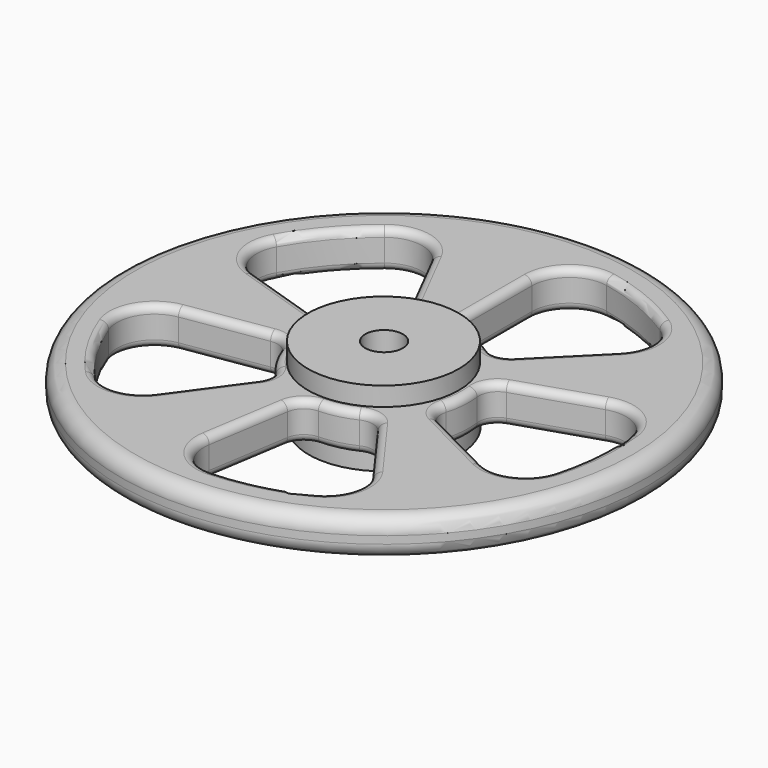
from build123d import *

# Parameters (mm, degrees)
F0_R     = 88.9
F1_DEPTH = 12.7
F2_R     = 25.4
F3_DEPTH = 6.35
F4_R     = 25.4
F5_DEPTH = 6.35
F7_DEPTH = 25.401
F8_R     = 6.35
F9_DEPTH = 25.401
F10_R    = 5.08
F11_R    = 2.54


with BuildPart() as f1:
    # F0 (on Top) → F1 (new body)
    with BuildSketch(Plane.XY):
        Circle(F0_R)
    extrude(amount=F1_DEPTH)

    # F2 (on face) → F3 (join)
    with BuildSketch(Plane.XY.offset(12.7)):
        with Locations((-0.167557, -0.068006)):
            Circle(F2_R)
    extrude(amount=F3_DEPTH)

    # F4 (on face) → F5 (join)
    with BuildSketch(Plane(origin=(0, 0, 0), x_dir=(1, 0, 0), z_dir=(0, 0, -1))):
        Circle(F4_R)
        Circle(F4_R)
    extrude(amount=F5_DEPTH)

    # F6 (on face) → F7 (cut, through all)
    with BuildSketch(Plane.XY.offset(19.05)):
        with BuildLine():
            ThreePointArc((5.195455, 28.098717), (10.935179, 26.399858), (16.195052, 23.542534))
            ThreePointArc((16.195052, 23.542534), (20.373646, 22.450724), (24.28408, 24.28408))
            Line((24.28408, 24.28408), (43.994091, 43.994091))
            ThreePointArc((43.994091, 43.994091), (47.649524, 54.25081), (42.016601, 63.569216))
            ThreePointArc((42.016601, 63.569216), (29.160478, 70.39962), (15.24, 74.660447))
            ThreePointArc((15.24, 74.660447), (4.667815, 72.054417), (0, 62.217039))
            Line((0, 62.217039), (0, 34.342876))
            ThreePointArc((0, 34.342876), (1.468716, 30.281402), (5.195455, 28.098717))
        make_face()
        with BuildLine():
            ThreePointArc((-17.385734, 22.677453), (-15.056105, 26.314144), (-15.591339, 30.599726))
            Line((-15.591339, 30.599726), (-28.245945, 55.435788))
            ThreePointArc((-28.245945, 55.435788), (-36.871074, 62.081812), (-47.474073, 59.60413))
            ThreePointArc((-47.474073, 59.60413), (-57.942935, 49.487941), (-66.296886, 37.565448))
            ThreePointArc((-66.296886, 37.565448), (-67.085389, 26.705395), (-59.171921, 19.226123))
            Line((-59.171921, 19.226123), (-32.662016, 10.612532))
            ThreePointArc((-32.662016, 10.612532), (-28.345467, 10.7543), (-25.117984, 13.624152))
            ThreePointArc((-25.117984, 13.624152), (-21.7286, 18.557978), (-17.385734, 22.677453))
        make_face()
        with BuildLine():
            ThreePointArc((-26.940027, -9.527098), (-29.67883, -6.187689), (-33.920058, -5.372409))
            Line((-33.920058, -5.372409), (-61.451044, -9.732889))
            ThreePointArc((-61.451044, -9.732889), (-70.437101, -15.88214), (-71.357192, -26.731837))
            ThreePointArc((-71.357192, -26.731837), (-64.971181, -39.814391), (-56.213729, -51.443723))
            ThreePointArc((-56.213729, -51.443723), (-46.128865, -55.549575), (-36.570258, -50.334642))
            Line((-36.570258, -50.334642), (-20.186236, -27.78397))
            ThreePointArc((-20.186236, -27.78397), (-18.987178, -23.634879), (-20.719222, -19.678528))
            ThreePointArc((-20.719222, -19.678528), (-24.364193, -14.930396), (-26.940027, -9.527098))
        make_face()
        with BuildLine():
            ThreePointArc((0.735882, -28.565523), (-3.286421, -30.138346), (-5.372409, -33.920058))
            Line((-5.372409, -33.920058), (-9.732889, -61.451044))
            ThreePointArc((-9.732889, -61.451044), (-6.661448, -71.897515), (3.372903, -76.125315))
            ThreePointArc((3.372903, -76.125315), (17.788537, -74.094588), (31.554891, -69.359418))
            ThreePointArc((31.554891, -69.359418), (38.576182, -61.036921), (36.570258, -50.334642))
            Line((36.570258, -50.334642), (20.186236, -27.78397))
            ThreePointArc((20.186236, -27.78397), (16.610745, -25.361459), (12.3128, -25.786151))
            ThreePointArc((12.3128, -25.786151), (6.670701, -27.78547), (0.735882, -28.565523))
        make_face()
        with BuildLine():
            ThreePointArc((27.394827, -8.127367), (27.64771, -12.438833), (30.599726, -15.591339))
            Line((30.599726, -15.591339), (55.435788, -28.245945))
            ThreePointArc((55.435788, -28.245945), (66.320099, -28.552967), (73.441761, -20.316194))
            ThreePointArc((73.441761, -20.316194), (75.965101, -5.978583), (75.715724, 8.577246))
            ThreePointArc((75.715724, 8.577246), (69.970257, 17.826684), (59.171921, 19.226123))
            Line((59.171921, 19.226123), (32.662016, 10.612532))
            ThreePointArc((32.662016, 10.612532), (29.253183, 7.960636), (28.328951, 3.74181))
            ThreePointArc((28.328951, 3.74181), (28.486913, -2.241969), (27.394827, -8.127367))
        make_face()
    extrude(amount=-F7_DEPTH, mode=Mode.SUBTRACT)

    # F8 (on face) → F9 (cut, through all)
    with BuildSketch(Plane.XY.offset(19.05)):
        Circle(F8_R)
    extrude(amount=-F9_DEPTH, mode=Mode.SUBTRACT)

    # F10
    f10_edges = [f1.edges().sort_by_distance(p)[0] for p in [
        (88.9, 0, 6.35),
        (-88.9, 0, 0),
        (-88.9, 0, 12.7),
    ]]
    fillet(f10_edges, radius=F10_R)

    # F11
    f11_edges = [f1.edges().sort_by_distance(p)[0] for p in [
        (45.916968, 14.919327, 12.7),
        (32.662016, 10.612532, 6.35),
        (45.916968, 14.919327, 0),
        (59.171921, 19.226123, 6.35),
        (0, 48.279958, 12.7),
        (0, 34.342876, 6.35),
        (0, 48.279958, 0),
        (0, 62.217039, 6.35),
        (-57.942935, 49.487941, 12.7),
        (-66.296886, 37.565448, 6.35),
        (-57.942935, 49.487941, 0),
        (-47.474073, 59.60413, 6.35),
        (-47.685551, -7.552649, 12.7),
        (-61.451044, -9.732889, 6.35),
        (-47.685551, -7.552649, 0),
        (-33.920058, -5.372409, 6.35),
        (-7.552649, -47.685551, 12.7),
        (-9.732889, -61.451044, 6.35),
        (-7.552649, -47.685551, 0),
        (-5.372409, -33.920058, 6.35),
    ]]
    fillet(f11_edges, radius=F11_R)


solid = f1.part
